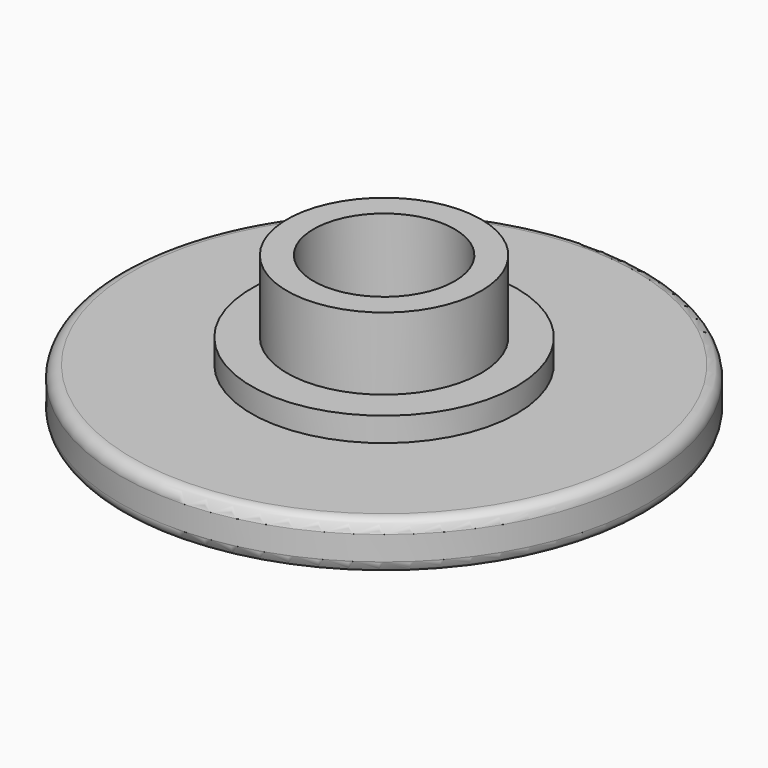
from build123d import *

# Parameters (mm, degrees)
F0_R      = 10.95
F0_R_2    = 0.069
F3_DEPTH  = 2
F1_R      = 5.5
F4_DEPTH  = 3
F2_R      = 4.025
F5_DEPTH  = 6
F6_R      = 0.5
F7_R      = 2.925
F8_DEPTH  = 4
F9_R      = 9.395345
F9_R_2    = 8.971159
F9_R_3    = 8.061351
F9_R_4    = 7.523244
F9_R_5    = 6.602201
F9_R_6    = 6.105505
F9_R_7    = 5.163827
F9_R_8    = 4.615079
F9_R_9    = 3.850939
F9_R_10   = 3.383897
F9_R_11   = 2.709612
F9_R_12   = 2.365196
F9_R_13   = 1.847375
F9_R_14   = 1.387714
F10_DEPTH = 1


with BuildPart() as f3:
    # F0 (on Top) → F3 (new body)
    with BuildSketch(Plane.XY):
        Circle(F0_R)
        Circle(F0_R_2, mode=Mode.SUBTRACT)
    extrude(amount=F3_DEPTH)

    # F1 (on Top) → F4 (join)
    with BuildSketch(Plane.XY):
        Circle(F1_R)
    extrude(amount=F4_DEPTH)

    # F2 (on Top) → F5 (join)
    with BuildSketch(Plane.XY):
        Circle(F2_R)
    extrude(amount=F5_DEPTH)

    # F6
    f6_edges = [f3.edges().sort_by_distance(p)[0] for p in [
        (10.95, 0, 1),
        (-10.95, 0, 0),
        (-10.95, 0, 2),
    ]]
    fillet(f6_edges, radius=F6_R)

    # F7 (on face) → F8 (cut)
    with BuildSketch(Plane.XY.offset(6)):
        Circle(F7_R)
    extrude(amount=-F8_DEPTH, mode=Mode.SUBTRACT)

    # F9 (on face) → F10 (cut)
    with BuildSketch(Plane(origin=(0, 0, 0), x_dir=(1, 0, 0), z_dir=(0, 0, -1))):
        Circle(F9_R)
        Circle(F9_R_2, mode=Mode.SUBTRACT)
        Circle(F9_R_3)
        Circle(F9_R_4, mode=Mode.SUBTRACT)
        Circle(F9_R_5)
        Circle(F9_R_6, mode=Mode.SUBTRACT)
        Circle(F9_R_7)
        Circle(F9_R_8, mode=Mode.SUBTRACT)
        Circle(F9_R_9)
        Circle(F9_R_10, mode=Mode.SUBTRACT)
        Circle(F9_R_11)
        Circle(F9_R_12, mode=Mode.SUBTRACT)
        Circle(F9_R_13)
        Circle(F9_R_14, mode=Mode.SUBTRACT)
    extrude(amount=-F10_DEPTH, mode=Mode.SUBTRACT)


solid = f3.part
